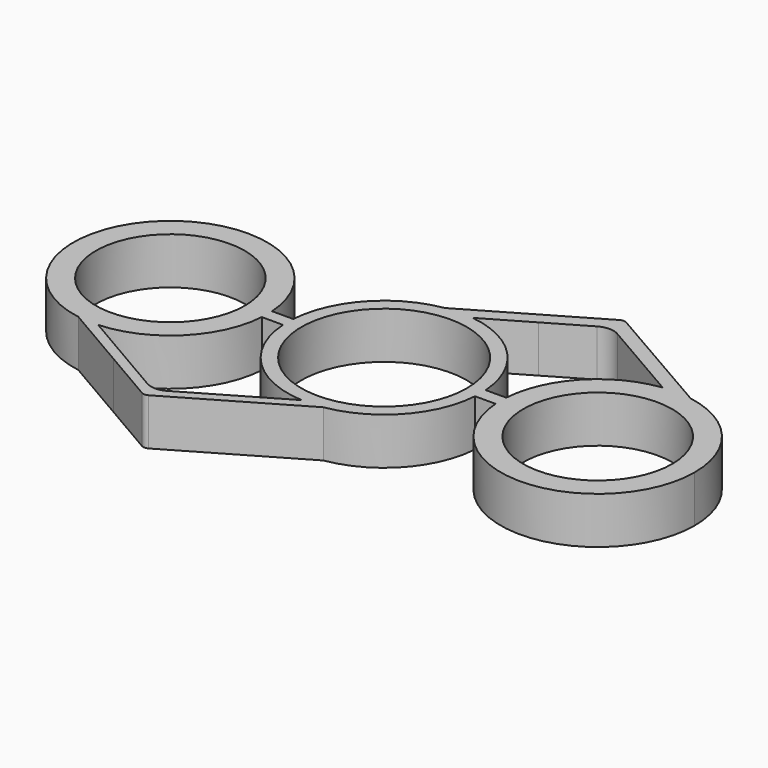
from build123d import *

# Parameters (mm, degrees)
F0_R     = 11.125
F0_R_2   = 12.376086
F1_DEPTH = 7


with BuildPart() as f1:
    # F0 (on Top) → F1 (new body)
    with BuildSketch(Plane.XY):
        with BuildLine():
            ThreePointArc((-17.516571, 0.089216), (-17.523634, 0.541725), (-17.544814, 0.993793))
            ThreePointArc((-17.544814, 0.993793), (-41.760355, 10.827403), (-34.318804, -14.22685))
            ThreePointArc((-34.318804, -14.22685), (-32.768784, -14.39126), (-31.210072, -14.388338))
            ThreePointArc((-31.210072, -14.388338), (-21.832298, -10.23215), (-17.551095, -0.910784))
            ThreePointArc((-17.551095, -0.910784), (-17.525205, -0.411082), (-17.516571, 0.089216))
        make_face()
        with Locations((-32.016571, 0.089216)):
            Circle(F0_R, mode=Mode.SUBTRACT)
        with BuildLine():
            ThreePointArc((14.375696, -0.993793), (14.401426, -0.497193), (14.410006, 0))
            ThreePointArc((14.410006, 0), (14.401426, 0.497193), (14.375696, 0.993793))
            ThreePointArc((14.375696, 0.993793), (10.466538, 9.904537), (1.784877, 14.299038))
            ThreePointArc((1.784877, 14.299038), (-0.255218, 14.407745), (-2.290183, 14.226852))
            ThreePointArc((-2.290183, 14.226852), (-10.640317, 9.717609), (-14.375696, 0.993793))
            ThreePointArc((-14.375696, 0.993793), (-14.409946, 0.041595), (-14.381194, -0.910784))
            ThreePointArc((-14.381194, -0.910784), (-10.146519, -10.232127), (-0.789928, -14.388338))
            ThreePointArc((-0.789928, -14.388338), (0.754468, -14.390241), (2.290198, -14.22685))
            ThreePointArc((2.290198, -14.22685), (10.640322, -9.717603), (14.375696, -0.993793))
        make_face()
        Circle(F0_R_2, mode=Mode.SUBTRACT)
        with BuildLine():
            Line((-15.511252, -24.588406), (2.290198, -14.22685))
            ThreePointArc((2.290198, -14.22685), (0.754468, -14.390241), (-0.789928, -14.388338))
            Line((-0.789928, -14.388338), (-14.490846, -22.363129))
            ThreePointArc((-14.490846, -22.363129), (-16, -22.770359), (-17.509154, -22.363129))
            Line((-17.509154, -22.363129), (-24.503051, -18.292243))
            Line((-24.503051, -18.292243), (-31.210072, -14.388338))
            ThreePointArc((-31.210072, -14.388338), (-32.768784, -14.39126), (-34.318804, -14.22685))
            Line((-34.318804, -14.22685), (-24.517354, -19.931906))
            Line((-24.517354, -19.931906), (-16.517354, -24.588406))
            ThreePointArc((-16.517354, -24.588406), (-16.014303, -24.724149), (-15.511252, -24.588406))
        make_face()
        with BuildLine():
            ThreePointArc((30.114196, 14.394545), (21.378316, 9.9726), (17.444744, 1.006207))
            ThreePointArc((17.444744, 1.006207), (17.41022, 0.006207), (17.444744, -0.993793))
            ThreePointArc((17.444744, -0.993793), (32.410518, -14.48516), (46.41022, 0.006207))
            ThreePointArc((46.41022, 0.006207), (42.997331, 9.351042), (34.36526, 14.29686))
            ThreePointArc((34.36526, 14.29686), (32.243328, 14.50238), (30.114196, 14.394545))
        make_face()
        with Locations((31.91022, 0.006207)):
            Circle(F0_R, mode=Mode.SUBTRACT)
        with BuildLine():
            ThreePointArc((14.375696, 0.993793), (14.401426, 0.497193), (14.410006, 0))
            ThreePointArc((14.410006, 0), (14.401426, -0.497193), (14.375696, -0.993793))
            Line((14.375696, -0.993793), (17.444744, -0.993793))
            ThreePointArc((17.444744, -0.993793), (17.41022, 0.006207), (17.444744, 1.006207))
            Line((17.444744, 1.006207), (14.375696, 0.993793))
        make_face()
        with BuildLine():
            ThreePointArc((-2.290183, 14.226852), (-0.255218, 14.407745), (1.784877, 14.299038))
            Line((1.784877, 14.299038), (8.491907, 18.202972))
            Line((8.491907, 18.202972), (14.48426, 21.690918))
            ThreePointArc((14.48426, 21.690918), (15.98947, 22.09815), (17.495747, 21.694885))
            Line((17.495747, 21.694885), (30.114196, 14.394545))
            ThreePointArc((30.114196, 14.394545), (32.243328, 14.50238), (34.36526, 14.29686))
            Line((34.36526, 14.29686), (16.516219, 24.591779))
            ThreePointArc((16.516219, 24.591779), (16.014611, 24.725537), (15.513537, 24.589794))
            Line((15.513537, 24.589794), (7.511249, 19.931933))
            Line((7.511249, 19.931933), (-2.290183, 14.226852))
        make_face()
        with BuildLine():
            ThreePointArc((-14.381194, -0.910784), (-14.409946, 0.041595), (-14.375696, 0.993793))
            Line((-14.375696, 0.993793), (-15.91022, 0.993793))
            Line((-15.91022, 0.993793), (-17.544814, 0.993793))
            ThreePointArc((-17.544814, 0.993793), (-17.523634, 0.541725), (-17.516571, 0.089216))
            ThreePointArc((-17.516571, 0.089216), (-17.525205, -0.411082), (-17.551095, -0.910784))
            Line((-17.551095, -0.910784), (-16.016571, -0.910784))
            Line((-16.016571, -0.910784), (-14.381194, -0.910784))
        make_face()
    extrude(amount=F1_DEPTH)


solid = f1.part
